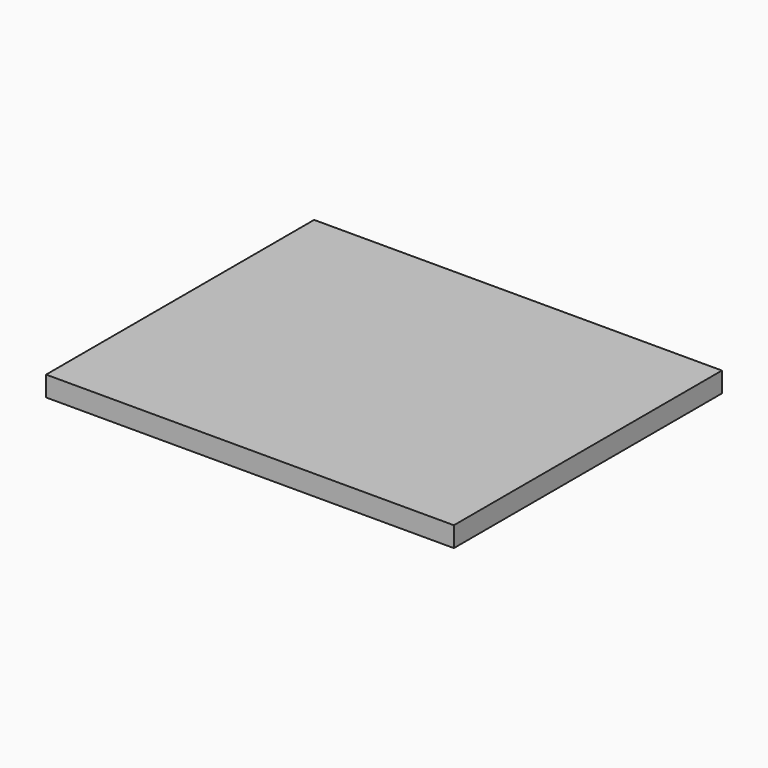
from build123d import *

# Parameters (mm, degrees)
F0_W     = 122.1274062991
F0_H     = 126.3863071799
F1_DEPTH = 25.4
F2_DEPTH = 25
F3_DEPTH = 23.727
F4_DEPTH = 25
F5_DEPTH = 19.3


with BuildPart() as f1:
    # F0 (on Top) → F1 (new body)
    with BuildSketch(Plane.XY):
        with Locations((-0.1608096063, 0.5355887115)):
            Rectangle(F0_W, F0_H)
    extrude(amount=F1_DEPTH)

    # F2 (add): a face of the model
    f2_faces = [f1.faces().sort_by_distance(p)[0] for p in [
        (60.9028935432, 0.5355887115, 12.7),
    ]]
    extrude(f2_faces, amount=F2_DEPTH)

    # F3 (cut): a face of the model
    f3_faces = [f1.faces().sort_by_distance(p)[0] for p in [
        (85.9028935432, 0.5355887115, 12.7),
    ]]
    extrude(f3_faces, amount=-F3_DEPTH, mode=Mode.SUBTRACT)

    # F4 (cut): a face of the model
    f4_faces = [f1.faces().sort_by_distance(p)[0] for p in [
        (0.4756903937, 63.7287423015, 12.7),
    ]]
    extrude(f4_faces, amount=-F4_DEPTH, mode=Mode.SUBTRACT)

    # F5 (cut): a face of the model
    f5_faces = [f1.faces().sort_by_distance(p)[0] for p in [
        (0.4756903937, -11.9644112885, 0),
    ]]
    extrude(f5_faces, amount=-F5_DEPTH, mode=Mode.SUBTRACT)


solid = f1.part
